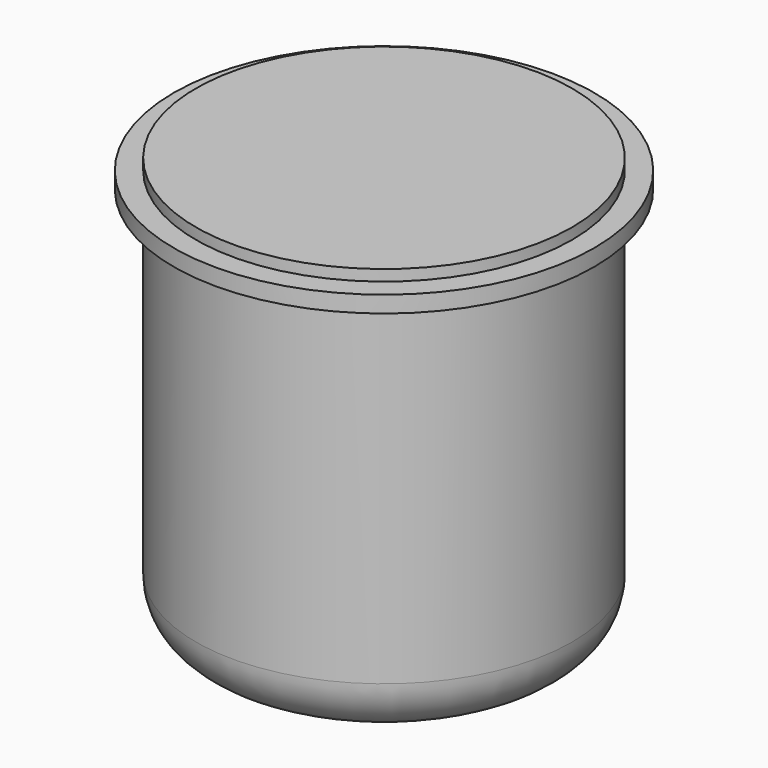
from build123d import *

# Parameters (mm, degrees)
F0_R     = 17
F1_DEPTH = 38
F2_R     = 5
F4_R     = 19
F5_DEPTH = 1.5


with BuildPart() as f1:
    # F0 (on Top) → F1 (new body)
    with BuildSketch(Plane.XY):
        Circle(F0_R)
    extrude(amount=F1_DEPTH)

    # F2
    f2_edges = [f1.edges().sort_by_distance(p)[0] for p in [
        (-17, 0, 0),
    ]]
    fillet(f2_edges, radius=F2_R)

    # F4 (on offset) → F5 (join)
    with BuildSketch(Plane.XY.offset(37)):
        Circle(F4_R)
    extrude(amount=-F5_DEPTH)


solid = f1.part
